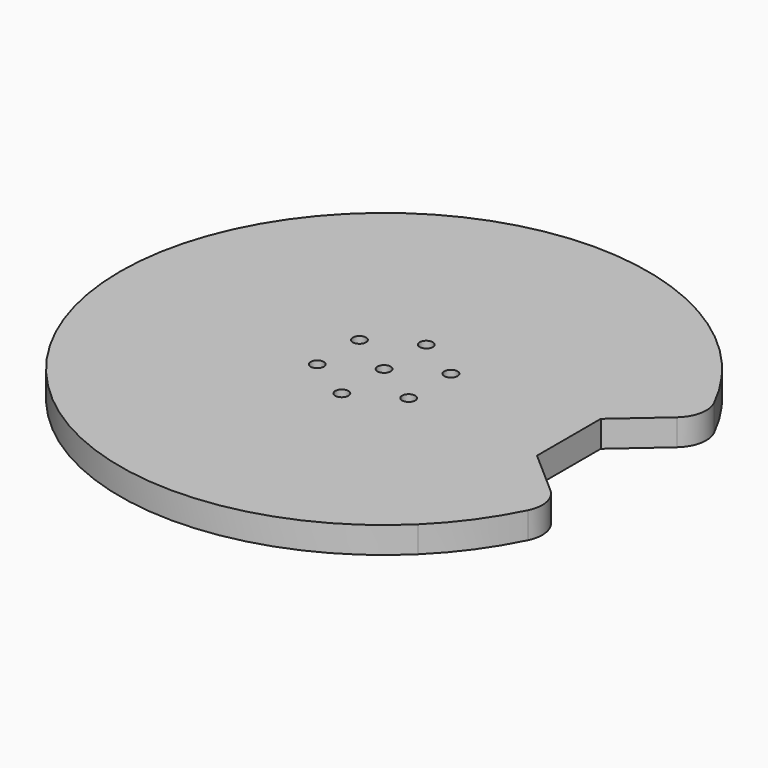
from build123d import *

# Parameters (mm, degrees)
F2_DEPTH = 12.7
F3_DEPTH = 12.7
F4_R     = 15
F5_R     = 3.175
F6_DEPTH = 12.7


with BuildPart() as f2:
    # F0 (on Top) → F2 (new body)
    with BuildSketch(Plane.XY):
        with BuildLine():
            Line((88.9, 0), (88.9, 90.6961410425))
            ThreePointArc((88.9, 90.6961410425), (-127, 0), (88.9, -90.6961410425))
            Line((88.9, -90.6961410425), (88.9, 0))
        make_face()
        with BuildLine():
            Line((88.9, 0), (127, 0))
            ThreePointArc((127, 0), (117.0882146076, 49.1868884968), (88.9, 90.6961410425))
            Line((88.9, 90.6961410425), (88.9, 0))
        make_face()
        with BuildLine():
            ThreePointArc((88.9, -90.6961410425), (117.0882146076, -49.1868884968), (127, 0))
            Line((127, 0), (88.9, 0))
            Line((88.9, 0), (88.9, -90.6961410425))
        make_face()
    extrude(amount=F2_DEPTH)

    # F1 (on Top) → F3 (cut, through all)
    with BuildSketch(Plane.XY):
        Polygon((127, 52.5), (88.9, 19.177), (88.9, -19.177), (127, -52.5), align=None)
    extrude(amount=F3_DEPTH, mode=Mode.SUBTRACT)

    # F4
    f4_edges = [f2.edges().sort_by_distance(p)[0] for p in [
        (118.676596, -45.220189, 6.35),
        (118.676596, 45.220189, 6.35),
    ]]
    fillet(f4_edges, radius=F4_R)

    # F5 (on face) → F6 (cut, through all)
    with BuildSketch(Plane.XY.offset(12.7)):
        Circle(F5_R)
        with Locations((0, 25.4)):
            Circle(F5_R)
        with Locations((-21.9970452561, 12.7)):
            Circle(F5_R)
        with Locations((-21.9970452561, -12.7)):
            Circle(F5_R)
        with Locations((0, -25.4)):
            Circle(F5_R)
        with Locations((21.9970452561, -12.7)):
            Circle(F5_R)
        with Locations((21.9970452561, 12.7)):
            Circle(F5_R)
    extrude(amount=-F6_DEPTH, mode=Mode.SUBTRACT)


solid = f2.part
